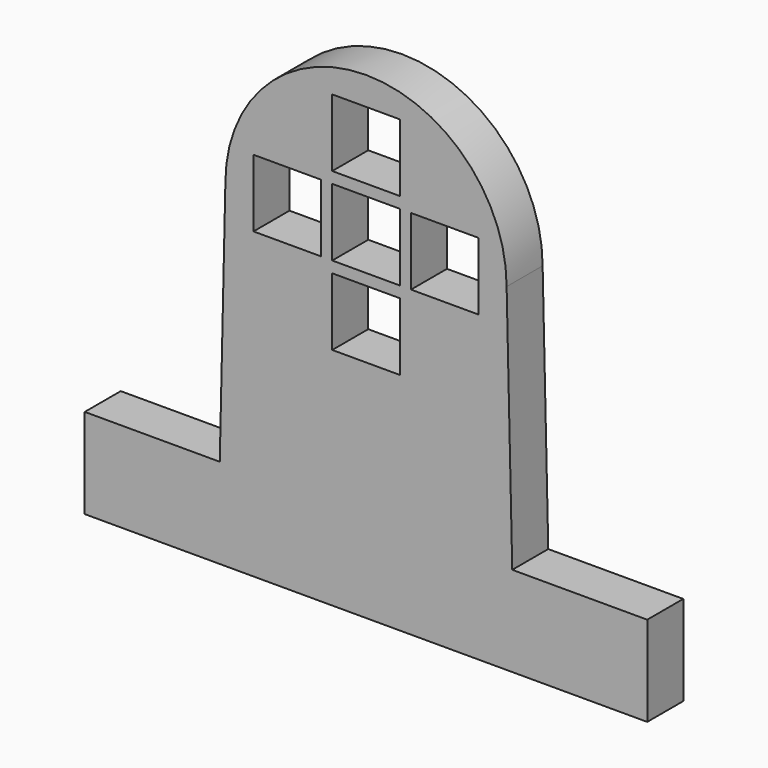
from build123d import *

# Parameters (mm, degrees)
F0_W     = 6
F0_H     = 6
F1_DEPTH = 4


with BuildPart() as f1:
    # F0 (on Front) → F1 (new body)
    with BuildSketch(Plane.XZ):
        with BuildLine():
            ThreePointArc((-12.5, 0), (0, -12.5), (12.5, 0))
            ThreePointArc((12.5, 0), (0, 12.5), (-12.5, 0))
        make_face()
        with Locations((-7, 0)):
            Rectangle(F0_W, F0_H, mode=Mode.SUBTRACT)
        with Locations((0, -7)):
            Rectangle(F0_W, F0_H, mode=Mode.SUBTRACT)
        Rectangle(F0_W, F0_H, mode=Mode.SUBTRACT)
        with Locations((7, 0)):
            Rectangle(F0_W, F0_H, mode=Mode.SUBTRACT)
        with Locations((0, 7)):
            Rectangle(F0_W, F0_H, mode=Mode.SUBTRACT)
        with BuildLine():
            Line((13, -22), (12.5, 0))
            ThreePointArc((12.5, 0), (0, -12.5), (-12.5, 0))
            Line((-12.5, 0), (-13, -22))
            Line((-13, -22), (-25, -22))
            Line((-25, -22), (-25, -30))
            Line((-25, -30), (0, -30))
            Line((0, -30), (25, -30))
            Line((25, -30), (25, -22))
            Line((25, -22), (13, -22))
        make_face()
    extrude(amount=F1_DEPTH)


solid = f1.part
